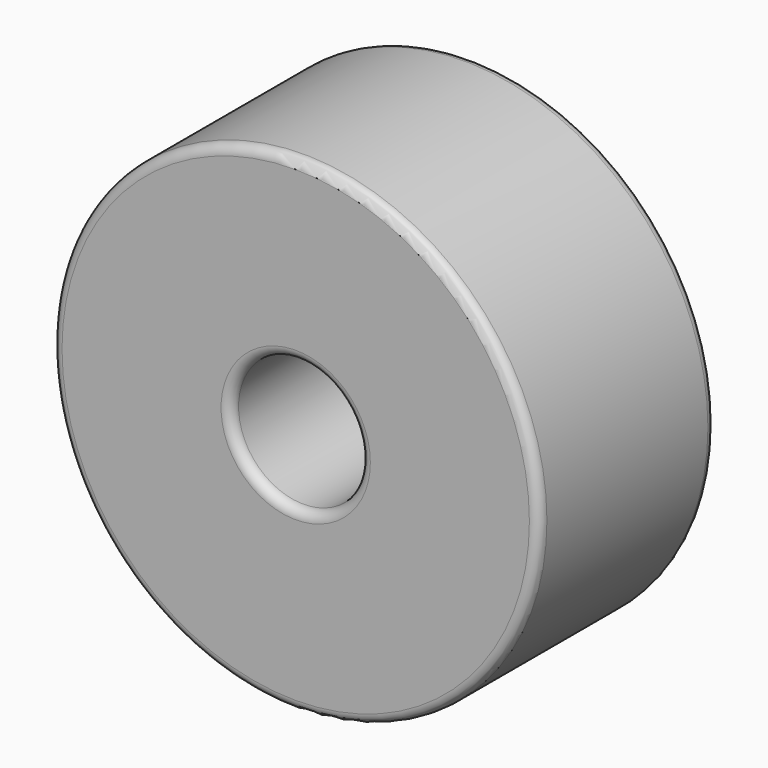
from build123d import *

# Parameters (mm, degrees)
F0_R     = 7.5
F1_DEPTH = 6.8
F2_R     = 2
F3_DEPTH = 24.4
F4_R     = 0.3
F5_R     = 0.3


with BuildPart() as f1:
    # F0 (on Front) → F1 (new body)
    with BuildSketch(Plane.XZ):
        Circle(F0_R)
    extrude(amount=-F1_DEPTH)

    # F2 (on face) → F3 (cut)
    with BuildSketch(Plane.XZ):
        Circle(F2_R)
    extrude(amount=-F3_DEPTH, mode=Mode.SUBTRACT)

    # F4
    f4_edges = [f1.edges().sort_by_distance(p)[0] for p in [
        (-7.5, 0, 0),
        (-2, 0, 0),
        (-7.5, 6.8, 0),
    ]]
    fillet(f4_edges, radius=F4_R)

    # F5
    f5_edges = [f1.edges().sort_by_distance(p)[0] for p in [
        (-2, 6.8, 0),
    ]]
    fillet(f5_edges, radius=F5_R)


solid = f1.part
